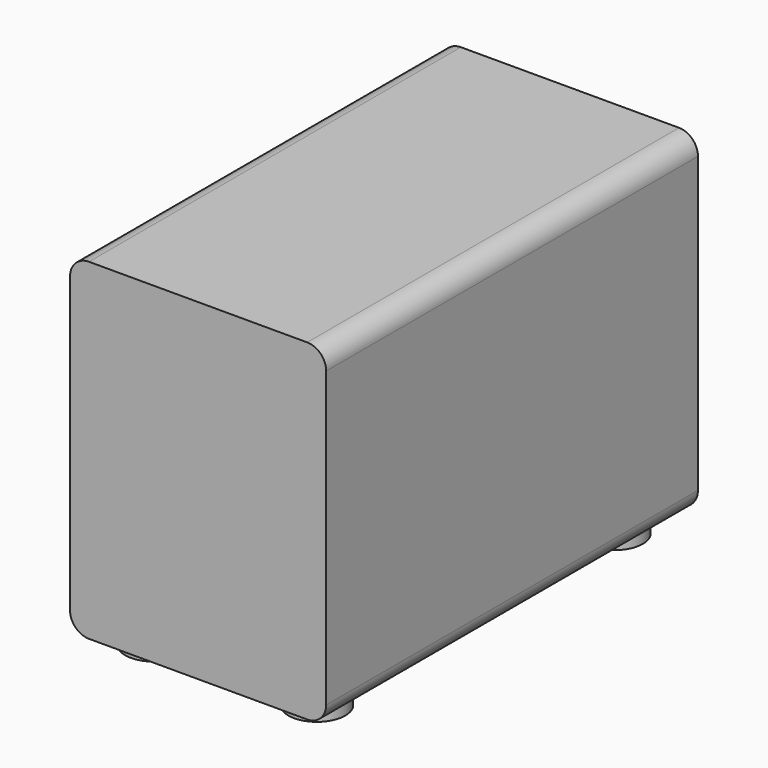
from build123d import *

# Parameters (mm, degrees)
F1_DEPTH = 245
F2_R     = 15
F3_DEPTH = 8


with BuildPart() as f1:
    # F0 (on Front) → F1 (new body)
    with BuildSketch(Plane.XZ):
        with BuildLine():
            ThreePointArc((0, 10), (2.928932, 2.928932), (10, 0))
            Line((10, 0), (125, 0))
            ThreePointArc((125, 0), (132.071068, 2.928932), (135, 10))
            Line((135, 10), (135, 165))
            ThreePointArc((135, 165), (132.071068, 172.071068), (125, 175))
            Line((125, 175), (10, 175))
            ThreePointArc((10, 175), (2.928932, 172.071068), (0, 165))
            Line((0, 165), (0, 10))
        make_face()
    extrude(amount=F1_DEPTH)

    # F2 (on face) → F3 (join)
    with BuildSketch(Plane(origin=(0, 0, 0), x_dir=(1, 0, 0), z_dir=(0, 0, -1))):
        with Locations((24.479745, 220.517814)):
            Circle(F2_R)
        with Locations((110.520255, 220.517814)):
            Circle(F2_R)
        with Locations((24.479745, 24.482186)):
            Circle(F2_R)
        with Locations((110.520255, 24.482186)):
            Circle(F2_R)
    extrude(amount=F3_DEPTH)


solid = f1.part
